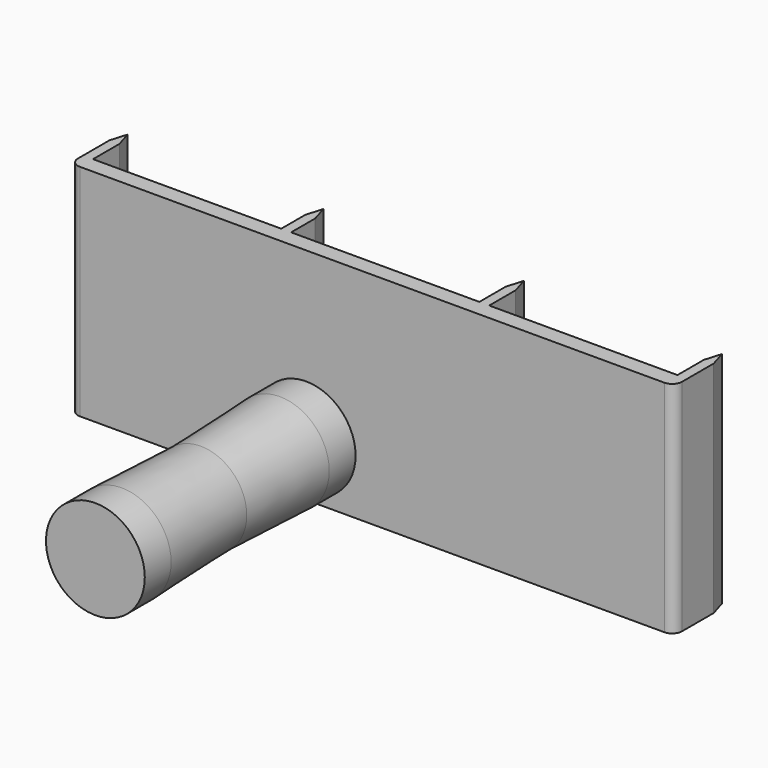
from build123d import *

# Parameters (mm, degrees)
F1_DEPTH  = 33.35
F3_R      = 15
F4_DEPTH  = 10
F4_FACE_R = 15
F5_DEPTH  = 30
F5_TAPER  = 2
F5_FACE_R = 13.9523769152
F6_DEPTH  = 30
F6_TAPER  = -2
F7_DEPTH  = 10


with BuildPart() as f1:
    # F0 (on Top) → F1 (new body, symmetric)
    with BuildSketch(Plane.XY):
        with BuildLine():
            Line((65.8403338313, 0), (62.8403338313, 0))
            Line((62.8403338313, 0), (5.6903338313, 0))
            Line((5.6903338313, 0), (5.6903338313, 10))
            Line((5.6903338313, 10), (4.1903338313, 10))
            Line((4.1903338313, 10), (2.6903338313, 10))
            Line((2.6903338313, 10), (2.6903338313, 0))
            Line((2.6903338313, 0), (-54.4596661687, 0))
            Line((-54.4596661687, 0), (-54.4596661687, 9.1486750171))
            Line((-54.4596661687, 9.1486750171), (-55.9596661687, 9.1486750171))
            Line((-55.9596661687, 9.1486750171), (-57.4596661687, 9.1486750171))
            Line((-57.4596661687, 9.1486750171), (-57.4596661687, 0))
            Line((-57.4596661687, 0), (-114.6096661687, 0))
            Line((-114.6096661687, 0), (-117.6096661687, 0))
            Line((-117.6096661687, 0), (-117.6096661687, -2))
            ThreePointArc((-117.6096661687, -2), (-116.730986545, -4.1213202645), (-114.6096662804, -4.9999998882))
            Line((-114.6096662804, -4.9999998882), (-57.4596661687, -4.9999998882))
            Line((-57.4596661687, -4.9999998882), (-54.4596661687, -4.9999998882))
            Line((-54.4596661687, -4.9999998882), (2.6903338313, -4.9999998882))
            Line((2.6903338313, -4.9999998882), (5.6903338313, -4.9999998882))
            Line((5.6903338313, -4.9999998882), (62.8403338313, -4.9999998882))
            ThreePointArc((62.8403338313, -4.9999998882), (64.9616541681, -4.121320304), (65.8403338313, -2))
            Line((65.8403338313, -2), (65.8403338313, 0))
        make_face()
        Polygon((62.8403338313, 10), (62.8403338313, 0), (65.8403338313, 0), (65.8403338313, 10), (64.3403338313, 10), align=None)
        Polygon((64.3403338313, 15), (62.8403338313, 10), (64.3403338313, 10), align=None)
        Polygon((64.3403338313, 15), (64.3403338313, 10), (65.8403338313, 10), align=None)
        Polygon((4.1903338313, 10), (5.6903338313, 10), (4.1903338313, 15), align=None)
        Polygon((2.6903338313, 10), (4.1903338313, 10), (4.1903338313, 15), align=None)
        Polygon((-55.9596661687, 9.1486750171), (-54.4596661687, 9.1486750171), (-55.9596661687, 14.1486750171), align=None)
        Polygon((-57.4596661687, 9.1486750171), (-55.9596661687, 9.1486750171), (-55.9596661687, 14.1486750171), align=None)
        Polygon((-117.6096661687, 10), (-117.6096661687, 0), (-114.6096661687, 0), (-114.6096661687, 10), (-116.1096661687, 10), align=None)
        Polygon((-116.1096661687, 15), (-117.6096661687, 10), (-116.1096661687, 10), align=None)
        Polygon((-116.1096661687, 10), (-114.6096661687, 10), (-116.1096661687, 15), align=None)
    extrude(amount=F1_DEPTH, both=True)


with BuildPart() as f4:
    # F3 (on offset) → F4 (new body)
    with BuildSketch(Plane.XZ.offset(29.9999998882)):
        with Locations((-25.8846662246, 0)):
            Circle(F3_R)
    extrude(amount=F4_DEPTH)


with BuildPart() as f5:
    # F4_face (on face) → F5 (new body)
    with BuildSketch(Plane(origin=(-25.8846662246, -39.9999998882, 0), x_dir=(1, 0, 0), z_dir=(0, -1, 0))):
        Circle(F4_FACE_R)
    extrude(amount=F5_DEPTH, taper=F5_TAPER)


with BuildPart() as f6:
    # F5_face (on face) → F6 (new body)
    with BuildSketch(Plane(origin=(-25.8846662246, -69.9999998882, 0), x_dir=(1, 0, 0), z_dir=(0, -1, 0))):
        Circle(F5_FACE_R)
    extrude(amount=F6_DEPTH, taper=F6_TAPER)


with BuildPart() as f7:
    # F7 (new): a face of the model
    f7_faces = [f6.part.faces().sort_by_distance(p)[0] for p in [
        (-25.8846662246, -99.9999998882, 0),
    ]]
    extrude(f7_faces, amount=F7_DEPTH)


solid = Compound([f1.part, f4.part, f5.part, f6.part, f7.part])
